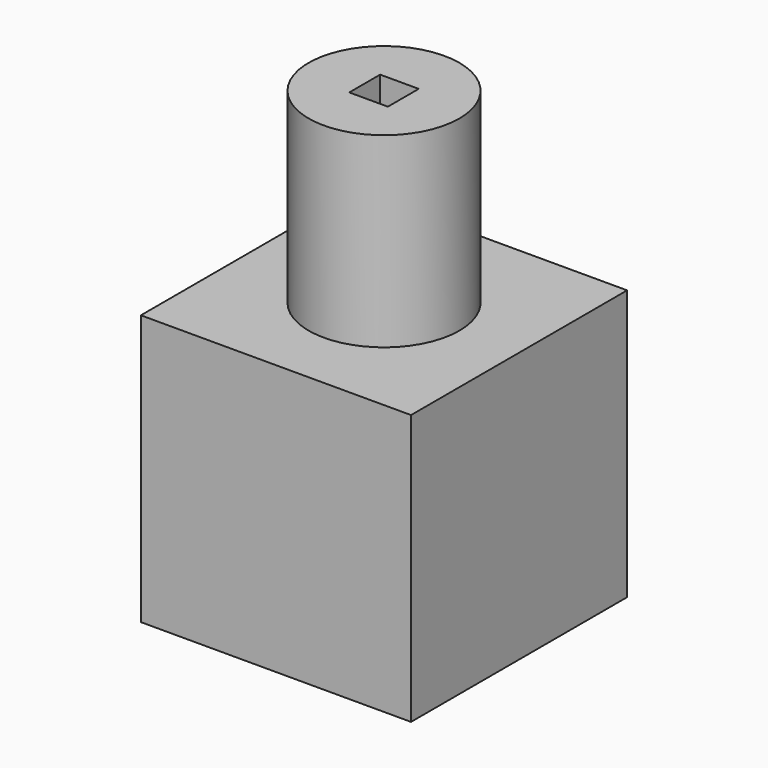
from build123d import *

# Parameters (mm, degrees)
F0_R     = 49.624192
F1_DEPTH = 122.936
F2_W     = 177.8
F2_H     = 177.8
F3_DEPTH = 177.8
F4_W     = 25.4
F4_H     = 25.4
F5_DEPTH = 376.936


with BuildPart() as f1:
    # F0 (on Top) → F1 (new body)
    with BuildSketch(Plane.XY):
        Circle(F0_R)
    extrude(amount=F1_DEPTH)

    # F2 (on Top) → F3 (join)
    with BuildSketch(Plane.XY):
        Rectangle(F2_W, F2_H)
    extrude(amount=-F3_DEPTH)

    # F4 (on face) → F5 (cut)
    with BuildSketch(Plane.XY.offset(122.936)):
        Rectangle(F4_W, F4_H)
    extrude(amount=-F5_DEPTH, mode=Mode.SUBTRACT)


solid = f1.part
